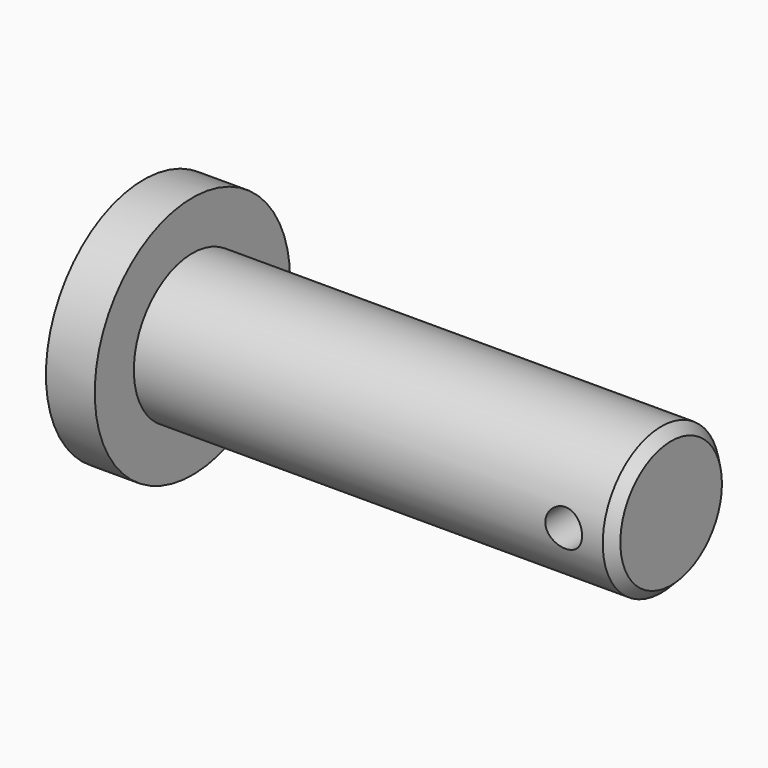
from build123d import *

# Parameters (mm, degrees)
F0_R     = 15.875
F1_DEPTH = 6.35
F2_R     = 9.525
F3_DEPTH = 62.23
F4_SIZE2 = 1.27
F4_SIZE  = 1.27
F5_R     = 2.3876
F6_DEPTH = 9.525


with BuildPart() as f1:
    # F0 (on Right) → F1 (new body)
    with BuildSketch(Plane.YZ):
        Circle(F0_R)
    extrude(amount=F1_DEPTH)

    # F2 (on face) → F3 (join)
    with BuildSketch(Plane.YZ.offset(6.35)):
        Circle(F2_R)
    extrude(amount=F3_DEPTH)

    # F4
    f4_edges = [f1.edges().sort_by_distance(p)[0] for p in [
        (68.58, -9.525, 0),
    ]]
    chamfer(f4_edges, length=F4_SIZE, length2=F4_SIZE2)

    # F5 (on Front) → F6 (cut, symmetric)
    with BuildSketch(Plane.XZ):
        with Locations((62.23, 0)):
            Circle(F5_R)
    extrude(amount=F6_DEPTH, both=True, mode=Mode.SUBTRACT)


solid = f1.part
